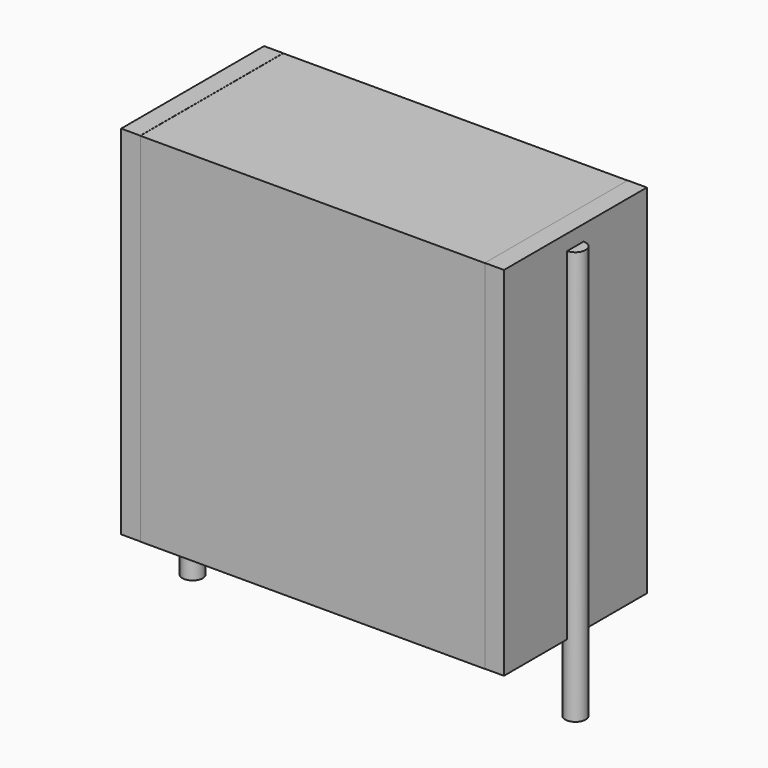
from build123d import *

# Parameters (mm, degrees)
SKETCH_W          = 13.5
SKETCH_H          = 7
PAD_DEPTH         = 14
SKETCH001_R       = 0.4
PAD001_DEPTH      = 13
PAD001_DEPTH_BACK = 3.2
SKETCH002_W       = 0.75
SKETCH002_H       = 7
PAD002_DEPTH      = 14


with BuildPart() as pad:
    # Sketch → Pad (new body)
    with BuildSketch(Plane.XY.offset(0.1)):
        with Locations((7.5, 0)):
            Rectangle(SKETCH_W, SKETCH_H)
    extrude(amount=PAD_DEPTH)


with BuildPart() as pad001:
    # Sketch001 → Pad001 (new body, two sides)
    with BuildSketch(Plane.XY.offset(0.5)) as pad001_sk:
        Circle(SKETCH001_R)
        with Locations((15, 0)):
            Circle(SKETCH001_R)
    extrude(amount=PAD001_DEPTH)
    extrude(pad001_sk.sketch, amount=-PAD001_DEPTH_BACK)


with BuildPart() as pad002:
    # Sketch002 → Pad002 (new body)
    with BuildSketch(Plane.XY.offset(0.105)):
        with Locations((0.375, 0)):
            Rectangle(SKETCH002_W, SKETCH002_H)
        with Locations((14.625, 0)):
            Rectangle(SKETCH002_W, SKETCH002_H)
    extrude(amount=PAD002_DEPTH)


solid = Compound([pad.part, pad001.part, pad002.part])
